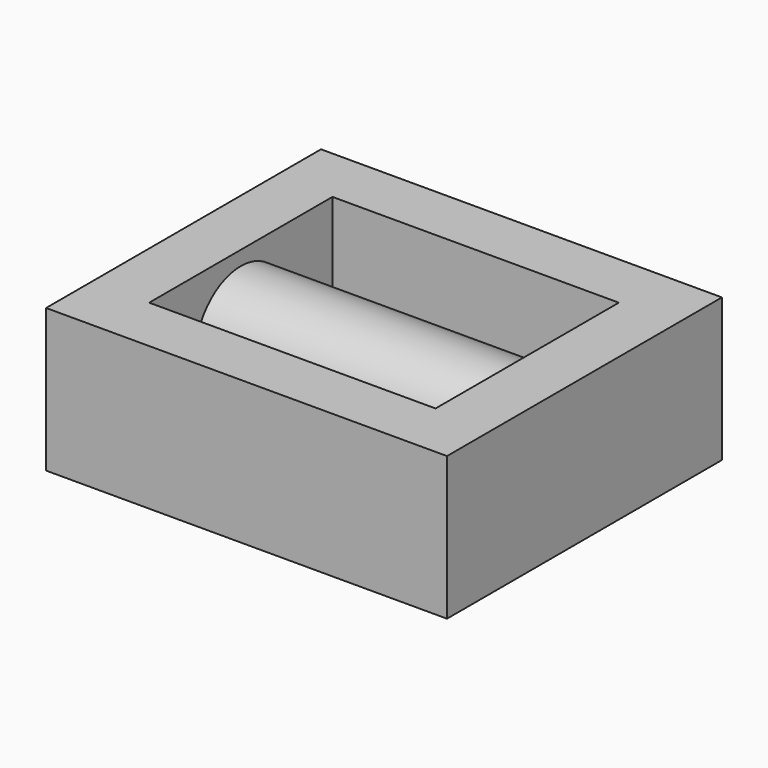
from build123d import *

# Parameters (mm, degrees)
F0_W     = 177.8
F0_H     = 152.4
F0_W_2   = 127
F0_H_2   = 101.6
F1_DEPTH = 63.5
F2_R     = 25.4
F3_DEPTH = 143.002


with BuildPart() as f1:
    # F0 (on Top) → F1 (new body)
    with BuildSketch(Plane.XY):
        with Locations((12.542767, 9.826824)):
            Rectangle(F0_W, F0_H)
        with Locations((12.542767, 9.826824)):
            Rectangle(F0_W_2, F0_H_2, mode=Mode.SUBTRACT)
    extrude(amount=F1_DEPTH)

    # F2 (on face) → F3 (join)
    with BuildSketch(Plane(origin=(76.042767, 0, 0), x_dir=(0, -1, 0), z_dir=(-1, 0, 0))):
        with Locations((-9.826824, 31.75)):
            Circle(F2_R)
    extrude(amount=F3_DEPTH)


solid = f1.part
